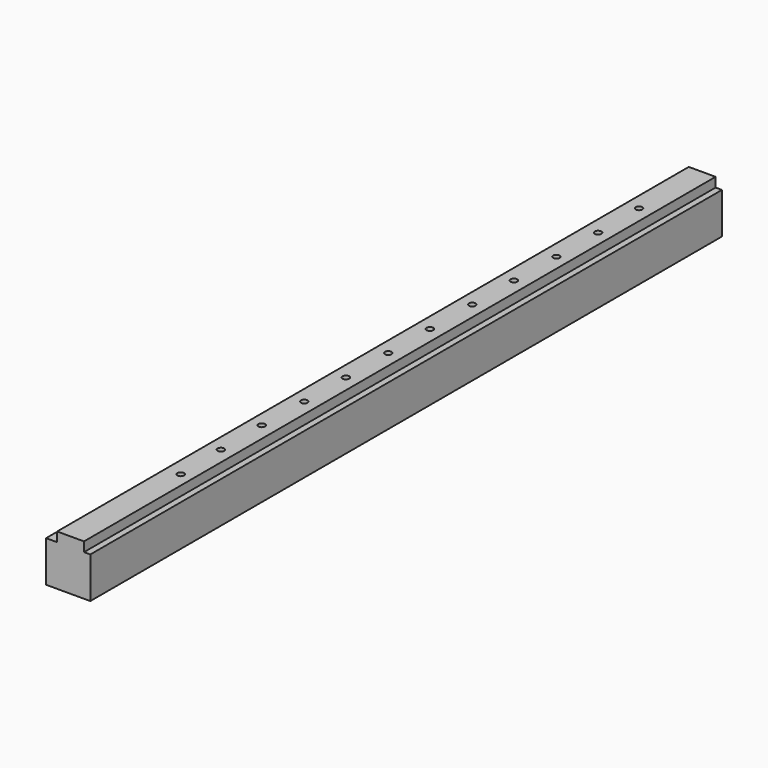
from build123d import *

# Parameters (mm, degrees)
PAD010_DEPTH   = 500
SKETCH024_R    = 2.1
HOLE005_DEPTH  = 25
HOLE005_TIPS_R = 2.1


with BuildPart() as part:
    # Sketch023 → Pad010 (new body)
    with BuildSketch(Plane.XZ):
        Polygon((7, 0), (24, 0), (24, -6), (28, -6), (28, -32), (0, -32), (0, -6), (7, -6), align=None)
    extrude(amount=PAD010_DEPTH)

    # Sketch024 → Hole005 (cut)
    with BuildSketch(Plane.XY):
        with Locations((16.5, -414)):
            Circle(SKETCH024_R)
        with Locations((15.5, -381)):
            Circle(SKETCH024_R)
        with Locations((15, -348)):
            Circle(SKETCH024_R)
        with Locations((15.5, -315)):
            Circle(SKETCH024_R)
        with Locations((15.5, -282)):
            Circle(SKETCH024_R)
        with Locations((15.5, -248.5)):
            Circle(SKETCH024_R)
        with Locations((15.5, -215.5)):
            Circle(SKETCH024_R)
        with Locations((15.5, -182)):
            Circle(SKETCH024_R)
        with Locations((15.5, -149)):
            Circle(SKETCH024_R)
        with Locations((16, -116)):
            Circle(SKETCH024_R)
        with Locations((16, -83)):
            Circle(SKETCH024_R)
        with Locations((15.5, -50)):
            Circle(SKETCH024_R)
    extrude(amount=-HOLE005_DEPTH, mode=Mode.SUBTRACT)

    # Hole005 tips → Hole005 tip 1 section 0
    with BuildSketch(Plane.XY.offset(-25), mode=Mode.PRIVATE) as hole005_tip_1_s0:
        with Locations((16.5, -414)):
            Circle(HOLE005_TIPS_R)
    loft([hole005_tip_1_s0.sketch, Vertex(16.5, -414, -26.261807)], mode=Mode.SUBTRACT)

    # Hole005 tips → Hole005 tip 2 section 0
    with BuildSketch(Plane.XY.offset(-25), mode=Mode.PRIVATE) as hole005_tip_2_s0:
        with Locations((15.5, -381)):
            Circle(HOLE005_TIPS_R)
    loft([hole005_tip_2_s0.sketch, Vertex(15.5, -381, -26.261807)], mode=Mode.SUBTRACT)

    # Hole005 tips → Hole005 tip 3 section 0
    with BuildSketch(Plane.XY.offset(-25), mode=Mode.PRIVATE) as hole005_tip_3_s0:
        with Locations((15, -348)):
            Circle(HOLE005_TIPS_R)
    loft([hole005_tip_3_s0.sketch, Vertex(15, -348, -26.261807)], mode=Mode.SUBTRACT)

    # Hole005 tips → Hole005 tip 4 section 0
    with BuildSketch(Plane.XY.offset(-25), mode=Mode.PRIVATE) as hole005_tip_4_s0:
        with Locations((15.5, -315)):
            Circle(HOLE005_TIPS_R)
    loft([hole005_tip_4_s0.sketch, Vertex(15.5, -315, -26.261807)], mode=Mode.SUBTRACT)

    # Hole005 tips → Hole005 tip 5 section 0
    with BuildSketch(Plane.XY.offset(-25), mode=Mode.PRIVATE) as hole005_tip_5_s0:
        with Locations((15.5, -282)):
            Circle(HOLE005_TIPS_R)
    loft([hole005_tip_5_s0.sketch, Vertex(15.5, -282, -26.261807)], mode=Mode.SUBTRACT)

    # Hole005 tips → Hole005 tip 6 section 0
    with BuildSketch(Plane.XY.offset(-25), mode=Mode.PRIVATE) as hole005_tip_6_s0:
        with Locations((15.5, -248.5)):
            Circle(HOLE005_TIPS_R)
    loft([hole005_tip_6_s0.sketch, Vertex(15.5, -248.5, -26.261807)], mode=Mode.SUBTRACT)

    # Hole005 tips → Hole005 tip 7 section 0
    with BuildSketch(Plane.XY.offset(-25), mode=Mode.PRIVATE) as hole005_tip_7_s0:
        with Locations((15.5, -215.5)):
            Circle(HOLE005_TIPS_R)
    loft([hole005_tip_7_s0.sketch, Vertex(15.5, -215.5, -26.261807)], mode=Mode.SUBTRACT)

    # Hole005 tips → Hole005 tip 8 section 0
    with BuildSketch(Plane.XY.offset(-25), mode=Mode.PRIVATE) as hole005_tip_8_s0:
        with Locations((15.5, -182)):
            Circle(HOLE005_TIPS_R)
    loft([hole005_tip_8_s0.sketch, Vertex(15.5, -182, -26.261807)], mode=Mode.SUBTRACT)

    # Hole005 tips → Hole005 tip 9 section 0
    with BuildSketch(Plane.XY.offset(-25), mode=Mode.PRIVATE) as hole005_tip_9_s0:
        with Locations((15.5, -149)):
            Circle(HOLE005_TIPS_R)
    loft([hole005_tip_9_s0.sketch, Vertex(15.5, -149, -26.261807)], mode=Mode.SUBTRACT)

    # Hole005 tips → Hole005 tip 10 section 0
    with BuildSketch(Plane.XY.offset(-25), mode=Mode.PRIVATE) as hole005_tip_10_s0:
        with Locations((16, -116)):
            Circle(HOLE005_TIPS_R)
    loft([hole005_tip_10_s0.sketch, Vertex(16, -116, -26.261807)], mode=Mode.SUBTRACT)

    # Hole005 tips → Hole005 tip 11 section 0
    with BuildSketch(Plane.XY.offset(-25), mode=Mode.PRIVATE) as hole005_tip_11_s0:
        with Locations((16, -83)):
            Circle(HOLE005_TIPS_R)
    loft([hole005_tip_11_s0.sketch, Vertex(16, -83, -26.261807)], mode=Mode.SUBTRACT)

    # Hole005 tips → Hole005 tip 12 section 0
    with BuildSketch(Plane.XY.offset(-25), mode=Mode.PRIVATE) as hole005_tip_12_s0:
        with Locations((15.5, -50)):
            Circle(HOLE005_TIPS_R)
    loft([hole005_tip_12_s0.sketch, Vertex(15.5, -50, -26.261807)], mode=Mode.SUBTRACT)


with BuildPart() as part_1:
    # Body007 placement: moved
    add(part.part.moved(Location((309, 420, 35))))


solid = part_1.part
